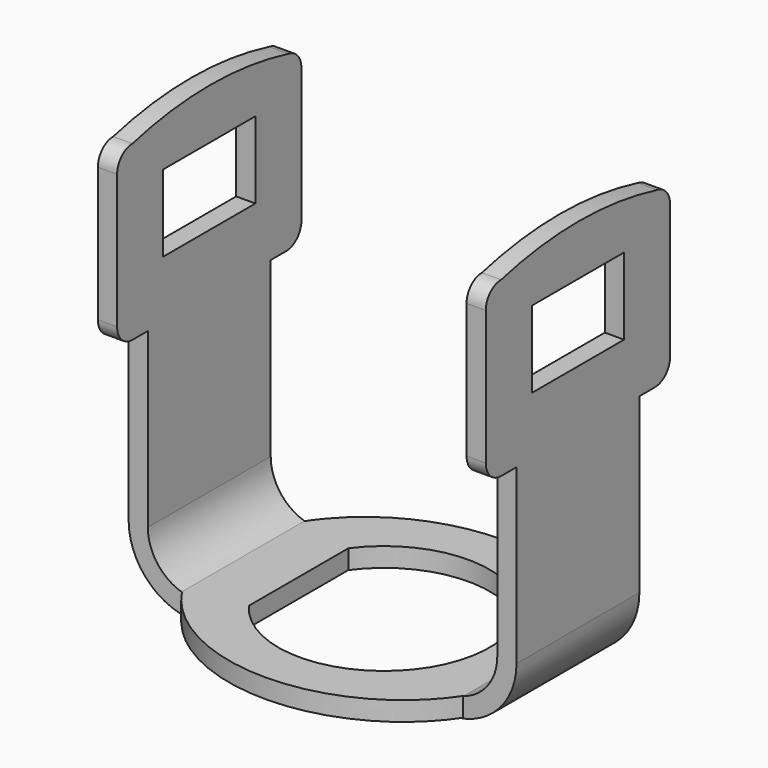
from build123d import *

# Parameters (mm, degrees)
BOX021_W            = 10
BOX021_H            = 20
BOX021_DEPTH        = 10
BOX022_W            = 10
BOX022_H            = 20
BOX022_DEPTH        = 10
PAD007_DEPTH        = 1
BOX023_W            = 14
BOX023_H            = 20
BOX023_DEPTH        = 10
SKETCH007_W         = 4
SKETCH007_H         = 6
PAD006_DEPTH        = 1
CLONE008_ROLL_ANGLE = 90
CLONE009_ROLL_ANGLE = 90
PAD005_DEPTH        = 8
CLONE007_ROLL_ANGLE = 90


with BuildPart() as cubo021:
    # Box021 → Box021 (new body)
    with BuildSketch(Plane(origin=(7.4, -10, -16), x_dir=(1, 0, 0), z_dir=(0, 0, 1))):
        with Locations((5, 10)):
            Rectangle(BOX021_W, BOX021_H)
    extrude(amount=BOX021_DEPTH)


with BuildPart() as cubo022:
    # Box022 → Box022 (new body)
    with BuildSketch(Plane(origin=(-17.4, -10, -16), x_dir=(1, 0, 0), z_dir=(0, 0, 1))):
        with Locations((5, 10)):
            Rectangle(BOX022_W, BOX022_H)
    extrude(amount=BOX022_DEPTH)


with BuildPart() as cut034:
    # Sketch008 → Pad007 (new body)
    with BuildSketch(Plane(origin=(0, 0, -12.6), x_dir=(-1, 0, 0), z_dir=(0, 0, 1))):
        with BuildLine():
            add(Edge.make_bspline(
                [(8.550522, 0), (8.550522, 13.423394), (-4.275261, 6.711697), (-17.101044, 0), (-4.275261, -6.711697), (8.550522, -13.423394), (8.550522, 0)],
                knots=[0, 0, 0, 2.094395, 2.094395, 4.18879, 4.18879, 6.283185, 6.283185, 6.283185], degree=2, weights=[1, 0.5, 1, 0.5, 1, 0.5, 1]))
        make_face()
        with BuildLine():
            ThreePointArc((4.444579, 3.239709), (-5.5, 0), (4.444579, -3.239709))
            Line((4.444579, -3.239709), (4.444579, 3.239709))
        make_face(mode=Mode.SUBTRACT)
    extrude(amount=PAD007_DEPTH)

    # Cut033: cut Cubo022
    add(cubo022.part, mode=Mode.SUBTRACT)

    # Cut034: cut Cubo021
    add(cubo021.part, mode=Mode.SUBTRACT)


with BuildPart() as cubo023:
    # Box023 → Box023 (new body)
    with BuildSketch(Plane(origin=(-7, -10, -16), x_dir=(1, 0, 0), z_dir=(0, 0, 1))):
        with Locations((7, 10)):
            Rectangle(BOX023_W, BOX023_H)
    extrude(amount=BOX023_DEPTH)


with BuildPart() as obj1:
    # Sketch007 → Pad006 (new body)
    with BuildSketch(Plane.YZ):
        with BuildLine():
            Line((-3.5, 6), (3.5, 6))
            ThreePointArc((4.5, 5), (4.207107, 5.707107), (3.5, 6))
            ThreePointArc((4.488917, -5.148471), (5.130693, -0.074931), (4.5, 5))
            ThreePointArc((3.5, -6), (4.152506, -5.757783), (4.488917, -5.148471))
            Line((3.5, -6), (-3.5, -6))
            ThreePointArc((-4.5, -5), (-4.207107, -5.707107), (-3.5, -6))
            Line((-4.5, -5), (-4.5, 5))
            ThreePointArc((-3.5, 6), (-4.207107, 5.707107), (-4.5, 5))
        make_face()
        with Locations((0.5, 0)):
            Rectangle(SKETCH007_W, SKETCH007_H, mode=Mode.SUBTRACT)
    extrude(amount=PAD006_DEPTH)


with BuildPart() as obj2:
    # Clone008 base: copy of obj1
    add(obj1.part)


with BuildPart() as obj2_1:
    # Clone008 roll: moved
    add(obj2.part.rotate(Axis((0, 0, 0), (1, 0, 0)), CLONE008_ROLL_ANGLE))


with BuildPart() as obj2_2:
    # Clone008 placement: moved
    add(obj2_1.part.moved(Location((-10.1, 0, 4.29))))


with BuildPart() as obj3:
    # Clone009 base: copy of obj1
    add(obj1.part)


with BuildPart() as obj3_1:
    # Clone009 roll: moved
    add(obj3.part.rotate(Axis((0, 0, 0), (1, 0, 0)), CLONE009_ROLL_ANGLE))


with BuildPart() as obj3_2:
    # Clone009 placement: moved
    add(obj3_1.part.moved(Location((9.1, 0, 4.29))))


with BuildPart() as brida:
    # Sketch006 → Pad005 (new body)
    with BuildSketch(Plane.XY):
        with BuildLine():
            Line((-10.1, 0.787419), (-9.1, 0.787419))
            Line((-9.1, 0.787419), (-9.1, -9.212581))
            ThreePointArc((-9.1, -9.212581), (-8.367767, -10.980348), (-6.6, -11.712581))
            Line((-6.6, -11.712581), (6.6, -11.712581))
            ThreePointArc((6.6, -11.712581), (8.367767, -10.980348), (9.1, -9.212581))
            Line((9.1, -9.212581), (9.1, 0.787419))
            Line((9.1, 0.787419), (10.1, 0.787419))
            Line((10.1, 0.787419), (10.1, -9.212581))
            ThreePointArc((6.6, -12.712581), (9.074874, -11.687455), (10.1, -9.212581))
            Line((6.6, -12.712581), (-6.6, -12.712581))
            ThreePointArc((-10.1, -9.212581), (-9.074874, -11.687455), (-6.6, -12.712581))
            Line((-10.1, -9.212581), (-10.1, 0.787419))
        make_face()
    extrude(amount=PAD005_DEPTH)


with BuildPart() as brida_1:
    # Clone007 roll: moved
    add(brida.part.rotate(Axis((0, 0, 0), (1, 0, 0)), CLONE007_ROLL_ANGLE))


with BuildPart() as brida_2:
    # Clone007 placement: moved
    add(brida_1.part.moved(Location((0, 4, 0))))

    # Fusion014: union obj2, obj3
    add(obj2_2.part)
    add(obj3_2.part)

    # Cut032: cut Cubo023
    add(cubo023.part, mode=Mode.SUBTRACT)

    # Fusion015: union Cut034
    add(cut034.part)


with BuildPart() as brida_3:
    # Fusion015 placement: moved
    add(brida_2.part.moved(Location((8.6, 11.25, -13.6))))


solid = brida_3.part
